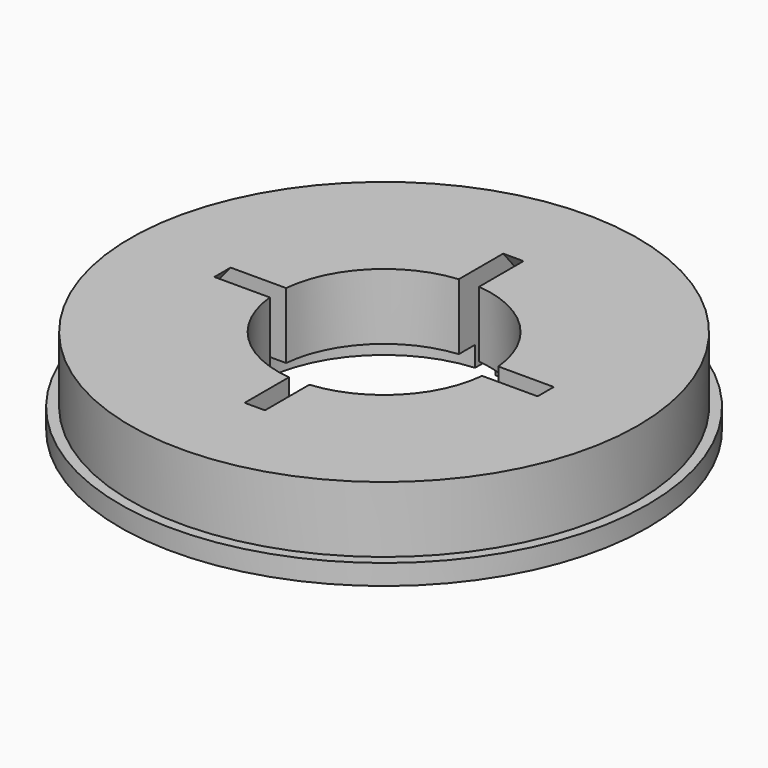
from build123d import *

# Parameters (mm, degrees)
SKETCH_R      = 26
SKETCH_R_2    = 10.5
PAD_DEPTH     = 2
SKETCH001_R   = 25
SKETCH001_R_2 = 10.5
PAD001_DEPTH  = 8.5
SKETCH004_R   = 12.5
POCKET_DEPTH  = 2


with BuildPart() as part:
    # Sketch → Pad (new body)
    with BuildSketch(Plane.XY):
        Circle(SKETCH_R)
        Circle(SKETCH_R_2, mode=Mode.SUBTRACT)
    extrude(amount=PAD_DEPTH)

    # Sketch001 → Pad001 (join)
    with BuildSketch(Plane.XY):
        Circle(SKETCH001_R)
        Circle(SKETCH001_R_2, mode=Mode.SUBTRACT)
    extrude(amount=PAD001_DEPTH)

    # Sketch002 → SubtractiveLoft section 0
    with BuildSketch(Plane.XY):
        Polygon((1, 23), (-1, 23), (-1, 1), (-23, 1), (-23, -1), (-1, -1), (-1, -23), (1, -23), (1, -1), (23, -1), (23, 1), (1, 1), align=None)
    # Sketch003 → SubtractiveLoft section 1
    with BuildSketch(Plane.XY.offset(12)):
        Polygon((1, 13), (-1, 13), (-1, 1), (-13, 1), (-13, -1), (-1, -1), (-1, -13), (1, -13), (1, -1), (13, -1), (13, 1), (1, 1), align=None)
    loft(mode=Mode.SUBTRACT)

    # Sketch004 → Pocket (cut)
    with BuildSketch(Plane.XY):
        Circle(SKETCH004_R)
    extrude(amount=POCKET_DEPTH, mode=Mode.SUBTRACT)


solid = part.part
